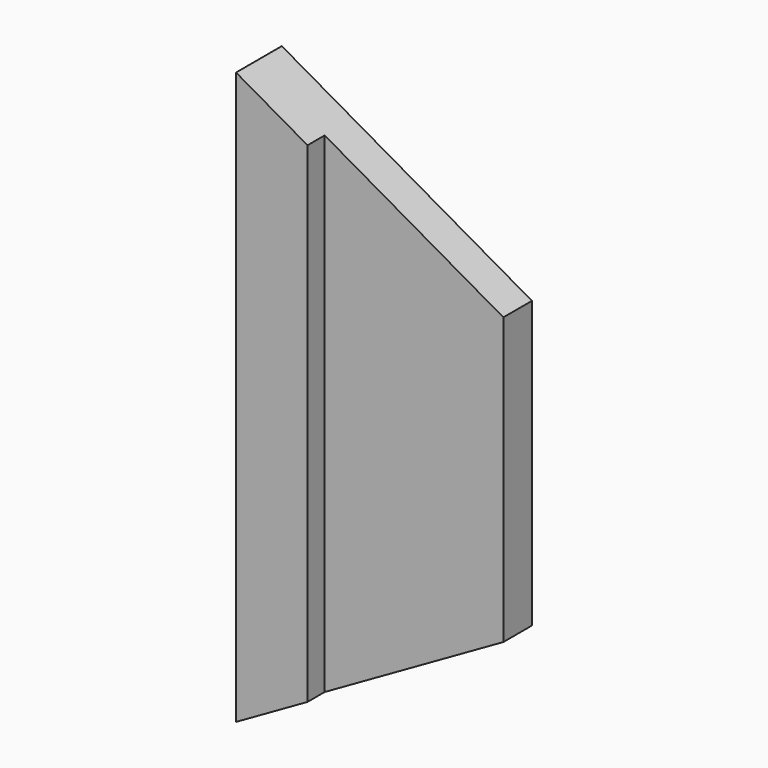
from build123d import *

# Parameters (mm, degrees)
SKETCH055_W      = 6
SKETCH055_H      = 16
EXTRUDE052_DEPTH = 1.6
EXTRUDE057_DEPTH = 1.6


with BuildPart() as extrude052:
    # Sketch055 → Extrude052 (new body)
    with BuildSketch(Plane.XZ.offset(-4.3)):
        with Locations((35, 12)):
            Rectangle(SKETCH055_W, SKETCH055_H)
    extrude(amount=EXTRUDE052_DEPTH)


with BuildPart() as switch_protector001:
    # Sketch054 → Extrude057 (new body)
    with BuildSketch(Plane.XZ.offset(-5.3)):
        Polygon((37, 16), (37, 8), (30, 4), (30, 20), align=None)
    extrude(amount=EXTRUDE057_DEPTH)

    # Cut029: cut Extrude052
    add(extrude052.part, mode=Mode.SUBTRACT)


with BuildPart() as switch_protector001_1:
    # Cut029 placement: moved
    add(switch_protector001.part.moved(Location((0, 0, -4))))


solid = switch_protector001_1.part
